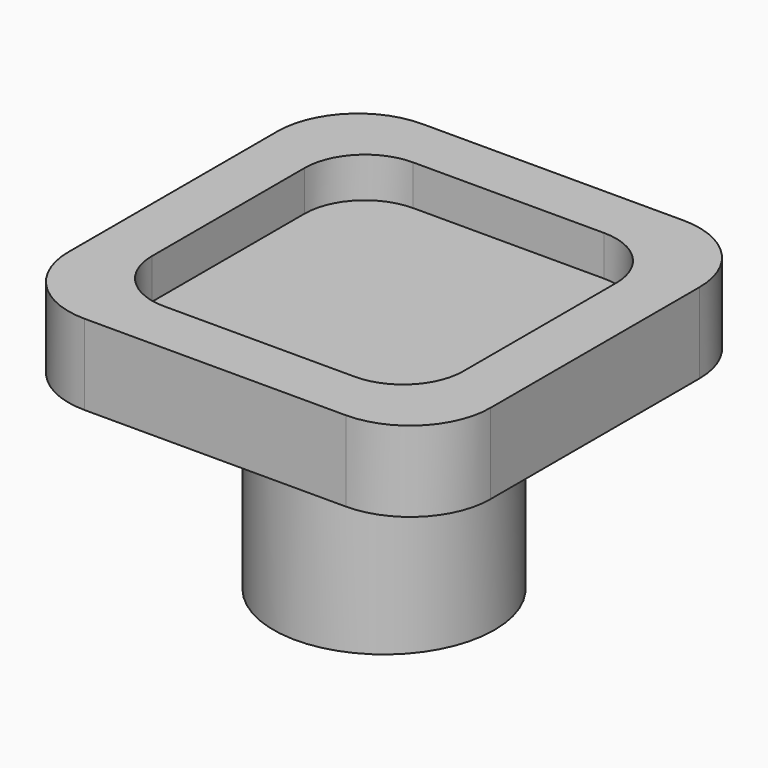
from build123d import *

# Parameters (mm, degrees)
F0_R     = 5.5
F0_R_2   = 2.5
F1_DEPTH = 10
F2_W     = 21
F2_H     = 21
F3_DEPTH = 4
F4_W     = 15.5
F4_H     = 15.5
F5_DEPTH = 2
F6_R     = 4
F7_R     = 1.25
F8_DEPTH = 10
F9_R     = 3


with BuildPart() as f1:
    # F0 (on Top) → F1 (new body)
    with BuildSketch(Plane.XY):
        Circle(F0_R)
        Circle(F0_R_2, mode=Mode.SUBTRACT)
    extrude(amount=F1_DEPTH)

    # F2 (on face) → F3 (join)
    with BuildSketch(Plane.XY.offset(10)):
        Rectangle(F2_W, F2_H)
    extrude(amount=F3_DEPTH)

    # F4 (on face) → F5 (cut)
    with BuildSketch(Plane.XY.offset(14)):
        Rectangle(F4_W, F4_H)
    extrude(amount=-F5_DEPTH, mode=Mode.SUBTRACT)

    # F6
    f6_edges = [f1.edges().sort_by_distance(p)[0] for p in [
        (10.5, 10.5, 12),
        (10.5, -10.5, 12),
        (-10.5, -10.5, 12),
        (-10.5, 10.5, 12),
    ]]
    fillet(f6_edges, radius=F6_R)

    # F7 (on Front) → F8 (cut)
    with BuildSketch(Plane.XZ):
        with Locations((0, 3)):
            Circle(F7_R)
    extrude(amount=-F8_DEPTH, mode=Mode.SUBTRACT)

    # F9
    f9_edges = [f1.edges().sort_by_distance(p)[0] for p in [
        (-7.75, 7.75, 13),
        (7.75, 7.75, 13),
        (-7.75, -7.75, 13),
        (7.75, -7.75, 13),
        (-5.5, 0, 10),
    ]]
    fillet(f9_edges, radius=F9_R)


solid = f1.part
